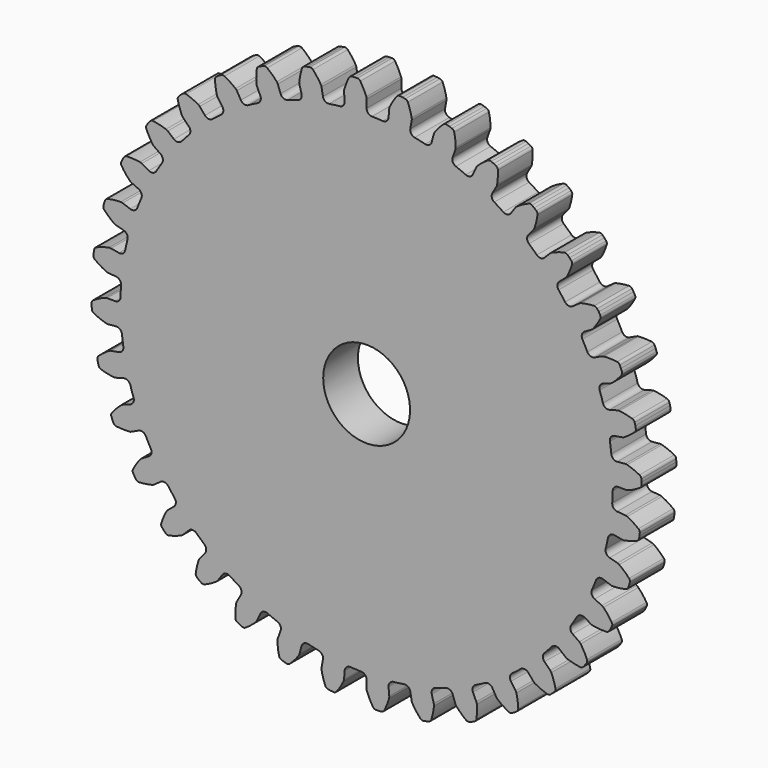
from build123d import *

# Parameters (mm, degrees)
F1_DEPTH = 6.35
F3_D     = 12.7


with BuildPart() as f1:
    # F0 (on Front) → F1 (new body)
    with BuildSketch(Plane.XZ):
        with BuildLine():
            ThreePointArc((-3.205129, 36.634792), (-3.383715, 36.057461), (-3.91513, 35.769708))
            ThreePointArc((-3.91513, 35.769708), (-4.696767, 35.675491), (-5.476156, 35.564195))
            ThreePointArc((-5.476156, 35.564195), (-6.06394, 35.704602), (-6.385865, 36.21604))
            Line((-6.385865, 36.21604), (-6.590906, 37.378888))
            ThreePointArc((-6.590906, 37.378888), (-6.629264, 37.519737), (-6.692575, 37.651272))
            ThreePointArc((-6.692575, 37.651272), (-7.231756, 38.455202), (-7.849749, 39.200255))
            ThreePointArc((-7.849749, 39.200255), (-8.060838, 39.337651), (-8.311977, 39.356769))
            Line((-8.311977, 39.356769), (-8.709641, 39.286651))
            Line((-8.709641, 39.286651), (-9.09968, 39.18214))
            ThreePointArc((-9.09968, 39.18214), (-9.31921, 39.058677), (-9.452455, 38.844944))
            ThreePointArc((-9.452455, 38.844944), (-9.697674, 37.908521), (-9.846583, 36.952046))
            ThreePointArc((-9.846583, 36.952046), (-9.848372, 36.806078), (-9.823611, 36.662214))
            Line((-9.823611, 36.662214), (-9.518001, 35.521662))
            ThreePointArc((-9.518001, 35.521662), (-9.593621, 34.922091), (-10.066995, 34.546431))
            ThreePointArc((-10.066995, 34.546431), (-10.820397, 34.317915), (-11.568619, 34.072971))
            ThreePointArc((-11.568619, 34.072971), (-12.171854, 34.109177), (-12.577699, 34.556943))
            Line((-12.577699, 34.556943), (-12.981551, 35.66652))
            ThreePointArc((-12.981551, 35.66652), (-13.043785, 35.798568), (-13.128974, 35.917112))
            ThreePointArc((-13.128974, 35.917112), (-13.799565, 36.6152), (-14.537546, 37.241621))
            ThreePointArc((-14.537546, 37.241621), (-14.769287, 37.340274), (-15.019931, 37.315492))
            Line((-15.019931, 37.315492), (-15.399377, 37.177385))
            Line((-15.399377, 37.177385), (-15.765343, 37.006732))
            ThreePointArc((-15.765343, 37.006732), (-15.960098, 36.847024), (-16.054205, 36.6134))
            ThreePointArc((-16.054205, 36.6134), (-16.13309, 35.648622), (-16.113646, 34.68082))
            ThreePointArc((-16.113646, 34.68082), (-16.090062, 34.536759), (-16.040695, 34.399381))
            Line((-16.040695, 34.399381), (-15.541673, 33.329225))
            ThreePointArc((-15.541673, 33.329225), (-15.51203, 32.725631), (-15.91298, 32.273478))
            ThreePointArc((-15.91298, 32.273478), (-16.615254, 31.917606), (-17.309575, 31.546456))
            ThreePointArc((-17.309575, 31.546456), (-17.909933, 31.477362), (-18.387365, 31.847851))
            Line((-18.387365, 31.847851), (-18.977759, 32.870442))
            ThreePointArc((-18.977759, 32.870442), (-19.061977, 32.989678), (-19.166457, 33.091627))
            ThreePointArc((-19.166457, 33.091627), (-19.948081, 33.662663), (-20.783628, 34.151419))
            ThreePointArc((-20.783628, 34.151419), (-21.028979, 34.208332), (-21.271511, 34.140402))
            Line((-21.271511, 34.140402), (-21.621211, 33.938503))
            Line((-21.621211, 33.938503), (-21.951983, 33.706894))
            ThreePointArc((-21.951983, 33.706894), (-22.116047, 33.515793), (-22.168156, 33.269377))
            ThreePointArc((-22.168156, 33.269377), (-22.07831, 32.305558), (-21.891105, 31.355835))
            ThreePointArc((-21.891105, 31.355835), (-21.842863, 31.218058), (-21.77039, 31.09134))
            Line((-21.77039, 31.09134), (-21.093119, 30.124096))
            ThreePointArc((-21.093119, 30.124096), (-20.959113, 29.53482), (-21.275456, 29.019911))
            ThreePointArc((-21.275456, 29.019911), (-21.905265, 28.547498), (-22.524588, 28.061418))
            ThreePointArc((-22.524588, 28.061418), (-23.103827, 27.889123), (-23.638341, 28.171078))
            Line((-23.638341, 28.171078), (-24.397336, 29.075613))
            ThreePointArc((-24.397336, 29.075613), (-24.50098, 29.178413), (-24.621576, 29.260671))
            ThreePointArc((-24.621576, 29.260671), (-25.490485, 29.687304), (-26.398209, 30.023543))
            ThreePointArc((-26.398209, 30.023543), (-26.649716, 30.036986), (-26.876768, 29.927974))
            Line((-26.876768, 29.927974), (-27.186095, 29.668417))
            Line((-27.186095, 29.668417), (-27.471624, 29.382889))
            ThreePointArc((-27.471624, 29.382889), (-27.600011, 29.166202), (-27.608538, 28.91448))
            ThreePointArc((-27.608538, 28.91448), (-27.352692, 27.980905), (-27.003414, 27.078119))
            ThreePointArc((-27.003414, 27.078119), (-26.931979, 26.950812), (-26.838604, 26.838604))
            Line((-26.838604, 26.838604), (-26.003661, 26.003661))
            ThreePointArc((-26.003661, 26.003661), (-25.769365, 25.446607), (-25.991489, 24.884589))
            ThreePointArc((-25.991489, 24.884589), (-26.529696, 24.309988), (-27.055203, 23.723749))
            ThreePointArc((-27.055203, 23.723749), (-27.595724, 23.453487), (-28.171078, 23.638341))
            Line((-28.171078, 23.638341), (-29.075613, 24.397336))
            ThreePointArc((-29.075613, 24.397336), (-29.195533, 24.480577), (-29.328581, 24.540644))
            ThreePointArc((-29.328581, 24.540644), (-30.258374, 24.809911), (-31.210695, 24.983417))
            ThreePointArc((-31.210695, 24.983417), (-31.460715, 24.952983), (-31.665388, 24.806199))
            Line((-31.665388, 24.806199), (-31.924944, 24.496871))
            Line((-31.924944, 24.496871), (-32.156553, 24.166099))
            ThreePointArc((-32.156553, 24.166099), (-32.245362, 23.93041), (-32.21005, 23.681032))
            ThreePointArc((-32.21005, 23.681032), (-31.795977, 22.806067), (-31.295237, 21.977648))
            ThreePointArc((-31.295237, 21.977648), (-31.202781, 21.86468), (-31.09134, 21.77039))
            Line((-31.09134, 21.77039), (-30.124096, 21.093119))
            ThreePointArc((-30.124096, 21.093119), (-29.796627, 20.585213), (-29.917784, 19.993162))
            ThreePointArc((-29.917784, 19.993162), (-30.348036, 19.333831), (-30.76376, 18.665245))
            ThreePointArc((-30.76376, 18.665245), (-31.249138, 18.305228), (-31.847851, 18.387365))
            Line((-31.847851, 18.387365), (-32.870442, 18.977759))
            ThreePointArc((-32.870442, 18.977759), (-33.002995, 19.038911), (-33.144452, 19.074962))
            ThreePointArc((-33.144452, 19.074962), (-34.106877, 19.178681), (-35.074859, 19.184182))
            ThreePointArc((-35.074859, 19.184182), (-35.315796, 19.110795), (-35.49187, 18.9307))
            Line((-35.49187, 18.9307), (-35.693769, 18.581))
            Line((-35.693769, 18.581), (-35.864422, 18.215035))
            ThreePointArc((-35.864422, 18.215035), (-35.910955, 17.967505), (-35.832875, 17.728048))
            ThreePointArc((-35.832875, 17.728048), (-35.273157, 16.938279), (-34.636171, 16.209397))
            ThreePointArc((-34.636171, 16.209397), (-34.525503, 16.1142), (-34.399381, 16.040695))
            Line((-34.399381, 16.040695), (-33.329225, 15.541673))
            ThreePointArc((-33.329225, 15.541673), (-32.918534, 15.098347), (-32.935041, 14.494252))
            ThreePointArc((-32.935041, 14.494252), (-33.244265, 13.770226), (-33.537575, 13.039607))
            ThreePointArc((-33.537575, 13.039607), (-33.953063, 12.600775), (-34.556943, 12.577699))
            Line((-34.556943, 12.577699), (-35.66652, 12.981551))
            ThreePointArc((-35.66652, 12.981551), (-35.807677, 13.018757), (-35.953246, 13.029697))
            ThreePointArc((-35.953246, 13.029697), (-36.91906, 12.964717), (-37.873291, 12.802046))
            ThreePointArc((-37.873291, 12.802046), (-38.097824, 12.687935), (-38.239951, 12.480001))
            Line((-38.239951, 12.480001), (-38.378058, 12.100555))
            Line((-38.378058, 12.100555), (-38.482568, 11.710516))
            ThreePointArc((-38.482568, 11.710516), (-38.485411, 11.458666), (-38.366936, 11.236405))
            ThreePointArc((-38.366936, 11.236405), (-37.678579, 10.555829), (-36.924702, 9.948632))
            ThreePointArc((-36.924702, 9.948632), (-36.799184, 9.874098), (-36.662214, 9.823611))
            Line((-36.662214, 9.823611), (-35.521662, 9.518001))
            ThreePointArc((-35.521662, 9.518001), (-35.040228, 9.152726), (-34.951584, 8.554942))
            ThreePointArc((-34.951584, 8.554942), (-35.130385, 7.788219), (-35.292368, 7.017768))
            ThreePointArc((-35.292368, 7.017768), (-35.625341, 6.513453), (-36.21604, 6.385865))
            Line((-36.21604, 6.385865), (-37.378888, 6.590906))
            ThreePointArc((-37.378888, 6.590906), (-37.524362, 6.603035), (-37.669618, 6.588531))
            ThreePointArc((-37.669618, 6.588531), (-38.609476, 6.356826), (-39.520963, 6.030926))
            ThreePointArc((-39.520963, 6.030926), (-39.72227, 5.879559), (-39.826129, 5.650104))
            Line((-39.826129, 5.650104), (-39.896248, 5.252441))
            Line((-39.896248, 5.252441), (-39.931442, 4.850179))
            ThreePointArc((-39.931442, 4.850179), (-39.890508, 4.601662), (-39.735237, 4.403351))
            ThreePointArc((-39.735237, 4.403351), (-38.939157, 3.852645), (-38.091294, 3.385583))
            ThreePointArc((-38.091294, 3.385583), (-37.954741, 3.333977), (-37.811085, 3.308041))
            Line((-37.811085, 3.308041), (-36.634792, 3.205129))
            ThreePointArc((-36.634792, 3.205129), (-36.097243, 2.929004), (-35.906141, 2.355694))
            ThreePointArc((-35.906141, 2.355694), (-35.949085, 1.569571), (-35.97482, 0.782697))
            ThreePointArc((-35.97482, 0.782697), (-36.215161, 0.228224), (-36.774731, 0))
            Line((-36.774731, 0), (-37.955517, 0))
            ThreePointArc((-37.955517, 0), (-38.100887, -0.013317), (-38.241418, -0.052825))
            ThreePointArc((-38.241418, -0.052825), (-39.126762, -0.444214), (-39.96781, -0.92344))
            ThreePointArc((-39.96781, -0.92344), (-40.139774, -1.107464), (-40.202211, -1.351468))
            Line((-40.202211, -1.351468), (-40.202211, -1.755266))
            Line((-40.202211, -1.755266), (-40.167018, -2.157528))
            ThreePointArc((-40.167018, -2.157528), (-40.083552, -2.395162), (-39.896203, -2.563498))
            ThreePointArc((-39.896203, -2.563498), (-39.016589, -2.967599), (-38.100502, -3.280336))
            ThreePointArc((-38.100502, -3.280336), (-37.957063, -3.307445), (-37.811085, -3.308041))
            Line((-37.811085, -3.308041), (-36.634792, -3.205129))
            ThreePointArc((-36.634792, -3.205129), (-36.057461, -3.383715), (-35.769708, -3.91513))
            ThreePointArc((-35.769708, -3.91513), (-35.675491, -4.696767), (-35.564195, -5.476156))
            ThreePointArc((-35.564195, -5.476156), (-35.704602, -6.06394), (-36.21604, -6.385865))
            Line((-36.21604, -6.385865), (-37.378888, -6.590906))
            ThreePointArc((-37.378888, -6.590906), (-37.519737, -6.629264), (-37.651272, -6.692575))
            ThreePointArc((-37.651272, -6.692575), (-38.455202, -7.231756), (-39.200255, -7.849749))
            ThreePointArc((-39.200255, -7.849749), (-39.337651, -8.060838), (-39.356769, -8.311977))
            Line((-39.356769, -8.311977), (-39.286651, -8.709641))
            Line((-39.286651, -8.709641), (-39.18214, -9.09968))
            ThreePointArc((-39.18214, -9.09968), (-39.058677, -9.31921), (-38.844944, -9.452455))
            ThreePointArc((-38.844944, -9.452455), (-37.908521, -9.697674), (-36.952046, -9.846583))
            ThreePointArc((-36.952046, -9.846583), (-36.806078, -9.848372), (-36.662214, -9.823611))
            Line((-36.662214, -9.823611), (-35.521662, -9.518001))
            ThreePointArc((-35.521662, -9.518001), (-34.922091, -9.593621), (-34.546431, -10.066995))
            ThreePointArc((-34.546431, -10.066995), (-34.317915, -10.820397), (-34.072971, -11.568619))
            ThreePointArc((-34.072971, -11.568619), (-34.109177, -12.171854), (-34.556943, -12.577699))
            Line((-34.556943, -12.577699), (-35.66652, -12.981551))
            ThreePointArc((-35.66652, -12.981551), (-35.798568, -13.043785), (-35.917112, -13.128974))
            ThreePointArc((-35.917112, -13.128974), (-36.6152, -13.799565), (-37.241621, -14.537546))
            ThreePointArc((-37.241621, -14.537546), (-37.340274, -14.769287), (-37.315492, -15.019931))
            Line((-37.315492, -15.019931), (-37.177385, -15.399377))
            Line((-37.177385, -15.399377), (-37.006732, -15.765343))
            ThreePointArc((-37.006732, -15.765343), (-36.847024, -15.960098), (-36.6134, -16.054205))
            ThreePointArc((-36.6134, -16.054205), (-35.648622, -16.13309), (-34.68082, -16.113646))
            ThreePointArc((-34.68082, -16.113646), (-34.536759, -16.090062), (-34.399381, -16.040695))
            Line((-34.399381, -16.040695), (-33.329225, -15.541673))
            ThreePointArc((-33.329225, -15.541673), (-32.725631, -15.51203), (-32.273478, -15.91298))
            ThreePointArc((-32.273478, -15.91298), (-31.917606, -16.615254), (-31.546456, -17.309575))
            ThreePointArc((-31.546456, -17.309575), (-31.477362, -17.909933), (-31.847851, -18.387365))
            Line((-31.847851, -18.387365), (-32.870442, -18.977759))
            ThreePointArc((-32.870442, -18.977759), (-32.989678, -19.061977), (-33.091627, -19.166457))
            ThreePointArc((-33.091627, -19.166457), (-33.662663, -19.948081), (-34.151419, -20.783628))
            ThreePointArc((-34.151419, -20.783628), (-34.208332, -21.028979), (-34.140402, -21.271511))
            Line((-34.140402, -21.271511), (-33.938503, -21.621211))
            Line((-33.938503, -21.621211), (-33.706894, -21.951983))
            ThreePointArc((-33.706894, -21.951983), (-33.515793, -22.116047), (-33.269377, -22.168156))
            ThreePointArc((-33.269377, -22.168156), (-32.305558, -22.07831), (-31.355835, -21.891105))
            ThreePointArc((-31.355835, -21.891105), (-31.218058, -21.842863), (-31.09134, -21.77039))
            Line((-31.09134, -21.77039), (-30.124096, -21.093119))
            ThreePointArc((-30.124096, -21.093119), (-29.53482, -20.959113), (-29.019911, -21.275456))
            ThreePointArc((-29.019911, -21.275456), (-28.547498, -21.905265), (-28.061418, -22.524588))
            ThreePointArc((-28.061418, -22.524588), (-27.889123, -23.103827), (-28.171078, -23.638341))
            Line((-28.171078, -23.638341), (-29.075613, -24.397336))
            ThreePointArc((-29.075613, -24.397336), (-29.178413, -24.50098), (-29.260671, -24.621576))
            ThreePointArc((-29.260671, -24.621576), (-29.687304, -25.490485), (-30.023543, -26.398209))
            ThreePointArc((-30.023543, -26.398209), (-30.036986, -26.649716), (-29.927974, -26.876768))
            Line((-29.927974, -26.876768), (-29.668417, -27.186095))
            Line((-29.668417, -27.186095), (-29.382889, -27.471624))
            ThreePointArc((-29.382889, -27.471624), (-29.166202, -27.600011), (-28.91448, -27.608538))
            ThreePointArc((-28.91448, -27.608538), (-27.980905, -27.352692), (-27.078119, -27.003414))
            ThreePointArc((-27.078119, -27.003414), (-26.950812, -26.931979), (-26.838604, -26.838604))
            Line((-26.838604, -26.838604), (-26.003661, -26.003661))
            ThreePointArc((-26.003661, -26.003661), (-25.446607, -25.769365), (-24.884589, -25.991489))
            ThreePointArc((-24.884589, -25.991489), (-24.309988, -26.529696), (-23.723749, -27.055203))
            ThreePointArc((-23.723749, -27.055203), (-23.453487, -27.595724), (-23.638341, -28.171078))
            Line((-23.638341, -28.171078), (-24.397336, -29.075613))
            ThreePointArc((-24.397336, -29.075613), (-24.480577, -29.195533), (-24.540644, -29.328581))
            ThreePointArc((-24.540644, -29.328581), (-24.809911, -30.258374), (-24.983417, -31.210695))
            ThreePointArc((-24.983417, -31.210695), (-24.952983, -31.460715), (-24.806199, -31.665388))
            Line((-24.806199, -31.665388), (-24.496871, -31.924944))
            Line((-24.496871, -31.924944), (-24.166099, -32.156553))
            ThreePointArc((-24.166099, -32.156553), (-23.93041, -32.245362), (-23.681032, -32.21005))
            ThreePointArc((-23.681032, -32.21005), (-22.806067, -31.795977), (-21.977648, -31.295237))
            ThreePointArc((-21.977648, -31.295237), (-21.86468, -31.202781), (-21.77039, -31.09134))
            Line((-21.77039, -31.09134), (-21.093119, -30.124096))
            ThreePointArc((-21.093119, -30.124096), (-20.585213, -29.796627), (-19.993162, -29.917784))
            ThreePointArc((-19.993162, -29.917784), (-19.333831, -30.348036), (-18.665245, -30.76376))
            ThreePointArc((-18.665245, -30.76376), (-18.305228, -31.249138), (-18.387365, -31.847851))
            Line((-18.387365, -31.847851), (-18.977759, -32.870442))
            ThreePointArc((-18.977759, -32.870442), (-19.038911, -33.002995), (-19.074962, -33.144452))
            ThreePointArc((-19.074962, -33.144452), (-19.178681, -34.106877), (-19.184182, -35.074859))
            ThreePointArc((-19.184182, -35.074859), (-19.110795, -35.315796), (-18.9307, -35.49187))
            Line((-18.9307, -35.49187), (-18.581, -35.693769))
            Line((-18.581, -35.693769), (-18.215035, -35.864422))
            ThreePointArc((-18.215035, -35.864422), (-17.967505, -35.910955), (-17.728048, -35.832875))
            ThreePointArc((-17.728048, -35.832875), (-16.938279, -35.273157), (-16.209397, -34.636171))
            ThreePointArc((-16.209397, -34.636171), (-16.1142, -34.525503), (-16.040695, -34.399381))
            Line((-16.040695, -34.399381), (-15.541673, -33.329225))
            ThreePointArc((-15.541673, -33.329225), (-15.098347, -32.918534), (-14.494252, -32.935041))
            ThreePointArc((-14.494252, -32.935041), (-13.770226, -33.244265), (-13.039607, -33.537575))
            ThreePointArc((-13.039607, -33.537575), (-12.600775, -33.953063), (-12.577699, -34.556943))
            Line((-12.577699, -34.556943), (-12.981551, -35.66652))
            ThreePointArc((-12.981551, -35.66652), (-13.018757, -35.807677), (-13.029697, -35.953246))
            ThreePointArc((-13.029697, -35.953246), (-12.964717, -36.91906), (-12.802046, -37.873291))
            ThreePointArc((-12.802046, -37.873291), (-12.687935, -38.097824), (-12.480001, -38.239951))
            Line((-12.480001, -38.239951), (-12.100555, -38.378058))
            Line((-12.100555, -38.378058), (-11.710516, -38.482568))
            ThreePointArc((-11.710516, -38.482568), (-11.458666, -38.485411), (-11.236405, -38.366936))
            ThreePointArc((-11.236405, -38.366936), (-10.555829, -37.678579), (-9.948632, -36.924702))
            ThreePointArc((-9.948632, -36.924702), (-9.874098, -36.799184), (-9.823611, -36.662214))
            Line((-9.823611, -36.662214), (-9.518001, -35.521662))
            ThreePointArc((-9.518001, -35.521662), (-9.152726, -35.040228), (-8.554942, -34.951584))
            ThreePointArc((-8.554942, -34.951584), (-7.788219, -35.130385), (-7.017768, -35.292368))
            ThreePointArc((-7.017768, -35.292368), (-6.513453, -35.625341), (-6.385865, -36.21604))
            Line((-6.385865, -36.21604), (-6.590906, -37.378888))
            ThreePointArc((-6.590906, -37.378888), (-6.603035, -37.524362), (-6.588531, -37.669618))
            ThreePointArc((-6.588531, -37.669618), (-6.356826, -38.609476), (-6.030926, -39.520963))
            ThreePointArc((-6.030926, -39.520963), (-5.879559, -39.72227), (-5.650104, -39.826129))
            Line((-5.650104, -39.826129), (-5.252441, -39.896248))
            Line((-5.252441, -39.896248), (-4.850179, -39.931442))
            ThreePointArc((-4.850179, -39.931442), (-4.601662, -39.890508), (-4.403351, -39.735237))
            ThreePointArc((-4.403351, -39.735237), (-3.852645, -38.939157), (-3.385583, -38.091294))
            ThreePointArc((-3.385583, -38.091294), (-3.333977, -37.954741), (-3.308041, -37.811085))
            Line((-3.308041, -37.811085), (-3.205129, -36.634792))
            ThreePointArc((-3.205129, -36.634792), (-2.929004, -36.097243), (-2.355694, -35.906141))
            ThreePointArc((-2.355694, -35.906141), (-1.569571, -35.949085), (-0.782697, -35.97482))
            ThreePointArc((-0.782697, -35.97482), (-0.228224, -36.215161), (0, -36.774731))
            Line((0, -36.774731), (0, -37.955517))
            ThreePointArc((0, -37.955517), (0.013317, -38.100887), (0.052825, -38.241418))
            ThreePointArc((0.052825, -38.241418), (0.444214, -39.126762), (0.92344, -39.96781))
            ThreePointArc((0.92344, -39.96781), (1.107464, -40.139774), (1.351468, -40.202211))
            Line((1.351468, -40.202211), (1.755266, -40.202211))
            Line((1.755266, -40.202211), (2.157528, -40.167018))
            ThreePointArc((2.157528, -40.167018), (2.395162, -40.083552), (2.563498, -39.896203))
            ThreePointArc((2.563498, -39.896203), (2.967599, -39.016589), (3.280336, -38.100502))
            ThreePointArc((3.280336, -38.100502), (3.307445, -37.957063), (3.308041, -37.811085))
            Line((3.308041, -37.811085), (3.205129, -36.634792))
            ThreePointArc((3.205129, -36.634792), (3.383715, -36.057461), (3.91513, -35.769708))
            ThreePointArc((3.91513, -35.769708), (4.696767, -35.675491), (5.476156, -35.564195))
            ThreePointArc((5.476156, -35.564195), (6.06394, -35.704602), (6.385865, -36.21604))
            Line((6.385865, -36.21604), (6.590906, -37.378888))
            ThreePointArc((6.590906, -37.378888), (6.629264, -37.519737), (6.692575, -37.651272))
            ThreePointArc((6.692575, -37.651272), (7.231756, -38.455202), (7.849749, -39.200255))
            ThreePointArc((7.849749, -39.200255), (8.060838, -39.337651), (8.311977, -39.356769))
            Line((8.311977, -39.356769), (8.709641, -39.286651))
            Line((8.709641, -39.286651), (9.09968, -39.18214))
            ThreePointArc((9.09968, -39.18214), (9.31921, -39.058677), (9.452455, -38.844944))
            ThreePointArc((9.452455, -38.844944), (9.697674, -37.908521), (9.846583, -36.952046))
            ThreePointArc((9.846583, -36.952046), (9.848372, -36.806078), (9.823611, -36.662214))
            Line((9.823611, -36.662214), (9.518001, -35.521662))
            ThreePointArc((9.518001, -35.521662), (9.593621, -34.922091), (10.066995, -34.546431))
            ThreePointArc((10.066995, -34.546431), (10.820397, -34.317915), (11.568619, -34.072971))
            ThreePointArc((11.568619, -34.072971), (12.171854, -34.109177), (12.577699, -34.556943))
            Line((12.577699, -34.556943), (12.981551, -35.66652))
            ThreePointArc((12.981551, -35.66652), (13.043785, -35.798568), (13.128974, -35.917112))
            ThreePointArc((13.128974, -35.917112), (13.799565, -36.6152), (14.537546, -37.241621))
            ThreePointArc((14.537546, -37.241621), (14.769287, -37.340274), (15.019931, -37.315492))
            Line((15.019931, -37.315492), (15.399377, -37.177385))
            Line((15.399377, -37.177385), (15.765343, -37.006732))
            ThreePointArc((15.765343, -37.006732), (15.960098, -36.847024), (16.054205, -36.6134))
            ThreePointArc((16.054205, -36.6134), (16.13309, -35.648622), (16.113646, -34.68082))
            ThreePointArc((16.113646, -34.68082), (16.090062, -34.536759), (16.040695, -34.399381))
            Line((16.040695, -34.399381), (15.541673, -33.329225))
            ThreePointArc((15.541673, -33.329225), (15.51203, -32.725631), (15.91298, -32.273478))
            ThreePointArc((15.91298, -32.273478), (16.615254, -31.917606), (17.309575, -31.546456))
            ThreePointArc((17.309575, -31.546456), (17.909933, -31.477362), (18.387365, -31.847851))
            Line((18.387365, -31.847851), (18.977759, -32.870442))
            ThreePointArc((18.977759, -32.870442), (19.061977, -32.989678), (19.166457, -33.091627))
            ThreePointArc((19.166457, -33.091627), (19.948081, -33.662663), (20.783628, -34.151419))
            ThreePointArc((20.783628, -34.151419), (21.028979, -34.208332), (21.271511, -34.140402))
            Line((21.271511, -34.140402), (21.621211, -33.938503))
            Line((21.621211, -33.938503), (21.951983, -33.706894))
            ThreePointArc((21.951983, -33.706894), (22.116047, -33.515793), (22.168156, -33.269377))
            ThreePointArc((22.168156, -33.269377), (22.07831, -32.305558), (21.891105, -31.355835))
            ThreePointArc((21.891105, -31.355835), (21.842863, -31.218058), (21.77039, -31.09134))
            Line((21.77039, -31.09134), (21.093119, -30.124096))
            ThreePointArc((21.093119, -30.124096), (20.959113, -29.53482), (21.275456, -29.019911))
            ThreePointArc((21.275456, -29.019911), (21.905265, -28.547498), (22.524588, -28.061418))
            ThreePointArc((22.524588, -28.061418), (23.103827, -27.889123), (23.638341, -28.171078))
            Line((23.638341, -28.171078), (24.397336, -29.075613))
            ThreePointArc((24.397336, -29.075613), (24.50098, -29.178413), (24.621576, -29.260671))
            ThreePointArc((24.621576, -29.260671), (25.490485, -29.687304), (26.398209, -30.023543))
            ThreePointArc((26.398209, -30.023543), (26.649716, -30.036986), (26.876768, -29.927974))
            Line((26.876768, -29.927974), (27.186095, -29.668417))
            Line((27.186095, -29.668417), (27.471624, -29.382889))
            ThreePointArc((27.471624, -29.382889), (27.600011, -29.166202), (27.608538, -28.91448))
            ThreePointArc((27.608538, -28.91448), (27.352692, -27.980905), (27.003414, -27.078119))
            ThreePointArc((27.003414, -27.078119), (26.931979, -26.950812), (26.838604, -26.838604))
            Line((26.838604, -26.838604), (26.003661, -26.003661))
            ThreePointArc((26.003661, -26.003661), (25.769365, -25.446607), (25.991489, -24.884589))
            ThreePointArc((25.991489, -24.884589), (26.529696, -24.309988), (27.055203, -23.723749))
            ThreePointArc((27.055203, -23.723749), (27.595724, -23.453487), (28.171078, -23.638341))
            Line((28.171078, -23.638341), (29.075613, -24.397336))
            ThreePointArc((29.075613, -24.397336), (29.195533, -24.480577), (29.328581, -24.540644))
            ThreePointArc((29.328581, -24.540644), (30.258374, -24.809911), (31.210695, -24.983417))
            ThreePointArc((31.210695, -24.983417), (31.460715, -24.952983), (31.665388, -24.806199))
            Line((31.665388, -24.806199), (31.924944, -24.496871))
            Line((31.924944, -24.496871), (32.156553, -24.166099))
            ThreePointArc((32.156553, -24.166099), (32.245362, -23.93041), (32.21005, -23.681032))
            ThreePointArc((32.21005, -23.681032), (31.795977, -22.806067), (31.295237, -21.977648))
            ThreePointArc((31.295237, -21.977648), (31.202781, -21.86468), (31.09134, -21.77039))
            Line((31.09134, -21.77039), (30.124096, -21.093119))
            ThreePointArc((30.124096, -21.093119), (29.796627, -20.585213), (29.917784, -19.993162))
            ThreePointArc((29.917784, -19.993162), (30.348036, -19.333831), (30.76376, -18.665245))
            ThreePointArc((30.76376, -18.665245), (31.249138, -18.305228), (31.847851, -18.387365))
            Line((31.847851, -18.387365), (32.870442, -18.977759))
            ThreePointArc((32.870442, -18.977759), (33.002995, -19.038911), (33.144452, -19.074962))
            ThreePointArc((33.144452, -19.074962), (34.106877, -19.178681), (35.074859, -19.184182))
            ThreePointArc((35.074859, -19.184182), (35.315796, -19.110795), (35.49187, -18.9307))
            Line((35.49187, -18.9307), (35.693769, -18.581))
            Line((35.693769, -18.581), (35.864422, -18.215035))
            ThreePointArc((35.864422, -18.215035), (35.910955, -17.967505), (35.832875, -17.728048))
            ThreePointArc((35.832875, -17.728048), (35.273157, -16.938279), (34.636171, -16.209397))
            ThreePointArc((34.636171, -16.209397), (34.525503, -16.1142), (34.399381, -16.040695))
            Line((34.399381, -16.040695), (33.329225, -15.541673))
            ThreePointArc((33.329225, -15.541673), (32.918534, -15.098347), (32.935041, -14.494252))
            ThreePointArc((32.935041, -14.494252), (33.244265, -13.770226), (33.537575, -13.039607))
            ThreePointArc((33.537575, -13.039607), (33.953063, -12.600775), (34.556943, -12.577699))
            Line((34.556943, -12.577699), (35.66652, -12.981551))
            ThreePointArc((35.66652, -12.981551), (35.807677, -13.018757), (35.953246, -13.029697))
            ThreePointArc((35.953246, -13.029697), (36.91906, -12.964717), (37.873291, -12.802046))
            ThreePointArc((37.873291, -12.802046), (38.097824, -12.687935), (38.239951, -12.480001))
            Line((38.239951, -12.480001), (38.378058, -12.100555))
            Line((38.378058, -12.100555), (38.482568, -11.710516))
            ThreePointArc((38.482568, -11.710516), (38.485411, -11.458666), (38.366936, -11.236405))
            ThreePointArc((38.366936, -11.236405), (37.678579, -10.555829), (36.924702, -9.948632))
            ThreePointArc((36.924702, -9.948632), (36.799184, -9.874098), (36.662214, -9.823611))
            Line((36.662214, -9.823611), (35.521662, -9.518001))
            ThreePointArc((35.521662, -9.518001), (35.040228, -9.152726), (34.951584, -8.554942))
            ThreePointArc((34.951584, -8.554942), (35.130385, -7.788219), (35.292368, -7.017768))
            ThreePointArc((35.292368, -7.017768), (35.625341, -6.513453), (36.21604, -6.385865))
            Line((36.21604, -6.385865), (37.378888, -6.590906))
            ThreePointArc((37.378888, -6.590906), (37.524362, -6.603035), (37.669618, -6.588531))
            ThreePointArc((37.669618, -6.588531), (38.609476, -6.356826), (39.520963, -6.030926))
            ThreePointArc((39.520963, -6.030926), (39.72227, -5.879559), (39.826129, -5.650104))
            Line((39.826129, -5.650104), (39.896248, -5.252441))
            Line((39.896248, -5.252441), (39.931442, -4.850179))
            ThreePointArc((39.931442, -4.850179), (39.890508, -4.601662), (39.735237, -4.403351))
            ThreePointArc((39.735237, -4.403351), (38.939157, -3.852645), (38.091294, -3.385583))
            ThreePointArc((38.091294, -3.385583), (37.954741, -3.333977), (37.811085, -3.308041))
            Line((37.811085, -3.308041), (36.634792, -3.205129))
            ThreePointArc((36.634792, -3.205129), (36.097243, -2.929004), (35.906141, -2.355694))
            ThreePointArc((35.906141, -2.355694), (35.949085, -1.569571), (35.97482, -0.782697))
            ThreePointArc((35.97482, -0.782697), (36.215161, -0.228224), (36.774731, 0))
            Line((36.774731, 0), (37.955517, 0))
            ThreePointArc((37.955517, 0), (38.100887, 0.013317), (38.241418, 0.052825))
            ThreePointArc((38.241418, 0.052825), (39.126762, 0.444214), (39.96781, 0.92344))
            ThreePointArc((39.96781, 0.92344), (40.139774, 1.107464), (40.202211, 1.351468))
            Line((40.202211, 1.351468), (40.202211, 1.755266))
            Line((40.202211, 1.755266), (40.167018, 2.157528))
            ThreePointArc((40.167018, 2.157528), (40.083552, 2.395162), (39.896203, 2.563498))
            ThreePointArc((39.896203, 2.563498), (39.016589, 2.967599), (38.100502, 3.280336))
            ThreePointArc((38.100502, 3.280336), (37.957063, 3.307445), (37.811085, 3.308041))
            Line((37.811085, 3.308041), (36.634792, 3.205129))
            ThreePointArc((36.634792, 3.205129), (36.057461, 3.383715), (35.769708, 3.91513))
            ThreePointArc((35.769708, 3.91513), (35.675491, 4.696767), (35.564195, 5.476156))
            ThreePointArc((35.564195, 5.476156), (35.704602, 6.06394), (36.21604, 6.385865))
            Line((36.21604, 6.385865), (37.378888, 6.590906))
            ThreePointArc((37.378888, 6.590906), (37.519737, 6.629264), (37.651272, 6.692575))
            ThreePointArc((37.651272, 6.692575), (38.455202, 7.231756), (39.200255, 7.849749))
            ThreePointArc((39.200255, 7.849749), (39.337651, 8.060838), (39.356769, 8.311977))
            Line((39.356769, 8.311977), (39.286651, 8.709641))
            Line((39.286651, 8.709641), (39.18214, 9.09968))
            ThreePointArc((39.18214, 9.09968), (39.058677, 9.31921), (38.844944, 9.452455))
            ThreePointArc((38.844944, 9.452455), (37.908521, 9.697674), (36.952046, 9.846583))
            ThreePointArc((36.952046, 9.846583), (36.806078, 9.848372), (36.662214, 9.823611))
            Line((36.662214, 9.823611), (35.521662, 9.518001))
            ThreePointArc((35.521662, 9.518001), (34.922091, 9.593621), (34.546431, 10.066995))
            ThreePointArc((34.546431, 10.066995), (34.317915, 10.820397), (34.072971, 11.568619))
            ThreePointArc((34.072971, 11.568619), (34.109177, 12.171854), (34.556943, 12.577699))
            Line((34.556943, 12.577699), (35.66652, 12.981551))
            ThreePointArc((35.66652, 12.981551), (35.798568, 13.043785), (35.917112, 13.128974))
            ThreePointArc((35.917112, 13.128974), (36.6152, 13.799565), (37.241621, 14.537546))
            ThreePointArc((37.241621, 14.537546), (37.340274, 14.769287), (37.315492, 15.019931))
            Line((37.315492, 15.019931), (37.177385, 15.399377))
            Line((37.177385, 15.399377), (37.006732, 15.765343))
            ThreePointArc((37.006732, 15.765343), (36.847024, 15.960098), (36.6134, 16.054205))
            ThreePointArc((36.6134, 16.054205), (35.648622, 16.13309), (34.68082, 16.113646))
            ThreePointArc((34.68082, 16.113646), (34.536759, 16.090062), (34.399381, 16.040695))
            Line((34.399381, 16.040695), (33.329225, 15.541673))
            ThreePointArc((33.329225, 15.541673), (32.725631, 15.51203), (32.273478, 15.91298))
            ThreePointArc((32.273478, 15.91298), (31.917606, 16.615254), (31.546456, 17.309575))
            ThreePointArc((31.546456, 17.309575), (31.477362, 17.909933), (31.847851, 18.387365))
            Line((31.847851, 18.387365), (32.870442, 18.977759))
            ThreePointArc((32.870442, 18.977759), (32.989678, 19.061977), (33.091627, 19.166457))
            ThreePointArc((33.091627, 19.166457), (33.662663, 19.948081), (34.151419, 20.783628))
            ThreePointArc((34.151419, 20.783628), (34.208332, 21.028979), (34.140402, 21.271511))
            Line((34.140402, 21.271511), (33.938503, 21.621211))
            Line((33.938503, 21.621211), (33.706894, 21.951983))
            ThreePointArc((33.706894, 21.951983), (33.515793, 22.116047), (33.269377, 22.168156))
            ThreePointArc((33.269377, 22.168156), (32.305558, 22.07831), (31.355835, 21.891105))
            ThreePointArc((31.355835, 21.891105), (31.218058, 21.842863), (31.09134, 21.77039))
            Line((31.09134, 21.77039), (30.124096, 21.093119))
            ThreePointArc((30.124096, 21.093119), (29.53482, 20.959113), (29.019911, 21.275456))
            ThreePointArc((29.019911, 21.275456), (28.547498, 21.905265), (28.061418, 22.524588))
            ThreePointArc((28.061418, 22.524588), (27.889123, 23.103827), (28.171078, 23.638341))
            Line((28.171078, 23.638341), (29.075613, 24.397336))
            ThreePointArc((29.075613, 24.397336), (29.178413, 24.50098), (29.260671, 24.621576))
            ThreePointArc((29.260671, 24.621576), (29.687304, 25.490485), (30.023543, 26.398209))
            ThreePointArc((30.023543, 26.398209), (30.036986, 26.649716), (29.927974, 26.876768))
            Line((29.927974, 26.876768), (29.668417, 27.186095))
            Line((29.668417, 27.186095), (29.382889, 27.471624))
            ThreePointArc((29.382889, 27.471624), (29.166202, 27.600011), (28.91448, 27.608538))
            ThreePointArc((28.91448, 27.608538), (27.980905, 27.352692), (27.078119, 27.003414))
            ThreePointArc((27.078119, 27.003414), (26.950812, 26.931979), (26.838604, 26.838604))
            Line((26.838604, 26.838604), (26.003661, 26.003661))
            ThreePointArc((26.003661, 26.003661), (25.446607, 25.769365), (24.884589, 25.991489))
            ThreePointArc((24.884589, 25.991489), (24.309988, 26.529696), (23.723749, 27.055203))
            ThreePointArc((23.723749, 27.055203), (23.453487, 27.595724), (23.638341, 28.171078))
            Line((23.638341, 28.171078), (24.397336, 29.075613))
            ThreePointArc((24.397336, 29.075613), (24.480577, 29.195533), (24.540644, 29.328581))
            ThreePointArc((24.540644, 29.328581), (24.809911, 30.258374), (24.983417, 31.210695))
            ThreePointArc((24.983417, 31.210695), (24.952983, 31.460715), (24.806199, 31.665388))
            Line((24.806199, 31.665388), (24.496871, 31.924944))
            Line((24.496871, 31.924944), (24.166099, 32.156553))
            ThreePointArc((24.166099, 32.156553), (23.93041, 32.245362), (23.681032, 32.21005))
            ThreePointArc((23.681032, 32.21005), (22.806067, 31.795977), (21.977648, 31.295237))
            ThreePointArc((21.977648, 31.295237), (21.86468, 31.202781), (21.77039, 31.09134))
            Line((21.77039, 31.09134), (21.093119, 30.124096))
            ThreePointArc((21.093119, 30.124096), (20.585213, 29.796627), (19.993162, 29.917784))
            ThreePointArc((19.993162, 29.917784), (19.333831, 30.348036), (18.665245, 30.76376))
            ThreePointArc((18.665245, 30.76376), (18.305228, 31.249138), (18.387365, 31.847851))
            Line((18.387365, 31.847851), (18.977759, 32.870442))
            ThreePointArc((18.977759, 32.870442), (19.038911, 33.002995), (19.074962, 33.144452))
            ThreePointArc((19.074962, 33.144452), (19.178681, 34.106877), (19.184182, 35.074859))
            ThreePointArc((19.184182, 35.074859), (19.110795, 35.315796), (18.9307, 35.49187))
            Line((18.9307, 35.49187), (18.581, 35.693769))
            Line((18.581, 35.693769), (18.215035, 35.864422))
            ThreePointArc((18.215035, 35.864422), (17.967505, 35.910955), (17.728048, 35.832875))
            ThreePointArc((17.728048, 35.832875), (16.938279, 35.273157), (16.209397, 34.636171))
            ThreePointArc((16.209397, 34.636171), (16.1142, 34.525503), (16.040695, 34.399381))
            Line((16.040695, 34.399381), (15.541673, 33.329225))
            ThreePointArc((15.541673, 33.329225), (15.098347, 32.918534), (14.494252, 32.935041))
            ThreePointArc((14.494252, 32.935041), (13.770226, 33.244265), (13.039607, 33.537575))
            ThreePointArc((13.039607, 33.537575), (12.600775, 33.953063), (12.577699, 34.556943))
            Line((12.577699, 34.556943), (12.981551, 35.66652))
            ThreePointArc((12.981551, 35.66652), (13.018757, 35.807677), (13.029697, 35.953246))
            ThreePointArc((13.029697, 35.953246), (12.964717, 36.91906), (12.802046, 37.873291))
            ThreePointArc((12.802046, 37.873291), (12.687935, 38.097824), (12.480001, 38.239951))
            Line((12.480001, 38.239951), (12.100555, 38.378058))
            Line((12.100555, 38.378058), (11.710516, 38.482568))
            ThreePointArc((11.710516, 38.482568), (11.458666, 38.485411), (11.236405, 38.366936))
            ThreePointArc((11.236405, 38.366936), (10.555829, 37.678579), (9.948632, 36.924702))
            ThreePointArc((9.948632, 36.924702), (9.874098, 36.799184), (9.823611, 36.662214))
            Line((9.823611, 36.662214), (9.518001, 35.521662))
            ThreePointArc((9.518001, 35.521662), (9.152726, 35.040228), (8.554942, 34.951584))
            ThreePointArc((8.554942, 34.951584), (7.788219, 35.130385), (7.017768, 35.292368))
            ThreePointArc((7.017768, 35.292368), (6.513453, 35.625341), (6.385865, 36.21604))
            Line((6.385865, 36.21604), (6.590906, 37.378888))
            ThreePointArc((6.590906, 37.378888), (6.603035, 37.524362), (6.588531, 37.669618))
            ThreePointArc((6.588531, 37.669618), (6.356826, 38.609476), (6.030926, 39.520963))
            ThreePointArc((6.030926, 39.520963), (5.879559, 39.72227), (5.650104, 39.826129))
            Line((5.650104, 39.826129), (5.252441, 39.896248))
            Line((5.252441, 39.896248), (4.850179, 39.931442))
            ThreePointArc((4.850179, 39.931442), (4.601662, 39.890508), (4.403351, 39.735237))
            ThreePointArc((4.403351, 39.735237), (3.852645, 38.939157), (3.385583, 38.091294))
            ThreePointArc((3.385583, 38.091294), (3.333977, 37.954741), (3.308041, 37.811085))
            Line((3.308041, 37.811085), (3.205129, 36.634792))
            ThreePointArc((3.205129, 36.634792), (2.929004, 36.097243), (2.355694, 35.906141))
            ThreePointArc((2.355694, 35.906141), (1.569571, 35.949085), (0.782697, 35.97482))
            ThreePointArc((0.782697, 35.97482), (0.228224, 36.215161), (0, 36.774731))
            Line((0, 36.774731), (0, 37.955517))
            ThreePointArc((0, 37.955517), (-0.013317, 38.100887), (-0.052825, 38.241418))
            ThreePointArc((-0.052825, 38.241418), (-0.444214, 39.126762), (-0.92344, 39.96781))
            ThreePointArc((-0.92344, 39.96781), (-1.107464, 40.139774), (-1.351468, 40.202211))
            Line((-1.351468, 40.202211), (-1.755266, 40.202211))
            Line((-1.755266, 40.202211), (-2.157528, 40.167018))
            ThreePointArc((-2.157528, 40.167018), (-2.395162, 40.083552), (-2.563498, 39.896203))
            ThreePointArc((-2.563498, 39.896203), (-2.967599, 39.016589), (-3.280336, 38.100502))
            ThreePointArc((-3.280336, 38.100502), (-3.307445, 37.957063), (-3.308041, 37.811085))
            Line((-3.308041, 37.811085), (-3.205129, 36.634792))
        make_face()
    extrude(amount=F1_DEPTH)

    # F3 (through all)
    with Locations(Plane.XZ.offset(6.35)):
        with Locations((0, 0)):
            Hole(F3_D / 2)


solid = f1.part
